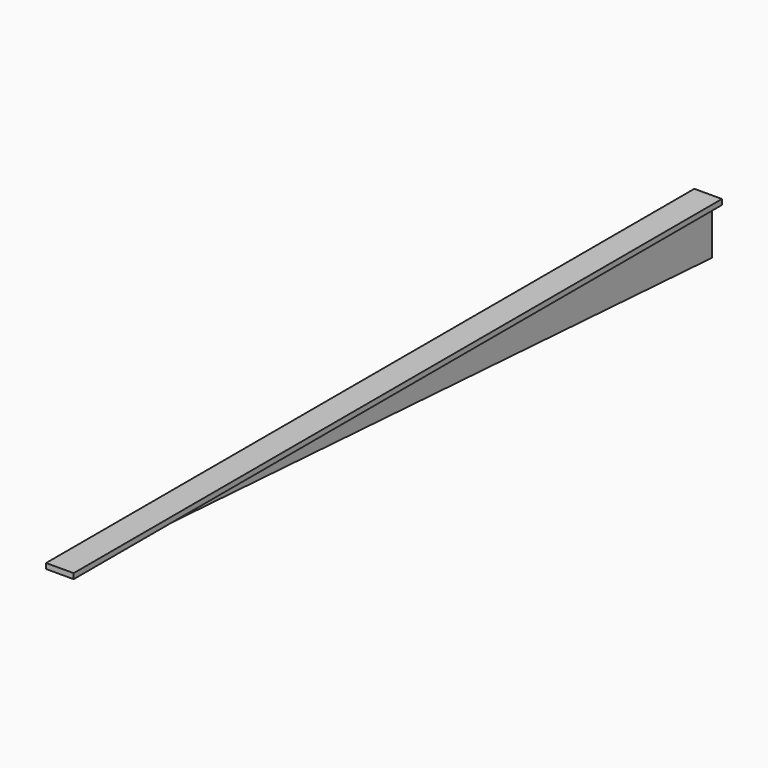
from build123d import *

# Parameters (mm, degrees)
F1_DEPTH = 500
F3_DEPTH = 100


with BuildPart() as f1:
    # F0 (on Front) → F1 (new body)
    with BuildSketch(Plane.XZ):
        Polygon((0, 16.431924), (-8.5, 16.431924), (-8.5, 13.145539), (-2.30047, 13.145539), (-2.30047, -17.568076), (0, -17.568076), (2.30047, -17.568076), (2.30047, 13.145539), (8.5, 13.145539), (8.5, 16.431924), align=None)
    extrude(amount=F1_DEPTH)

    # F2 (on face) → F3 (cut)
    with BuildSketch(Plane.YZ.offset(2.30047)):
        Polygon((0, -17.568076), (-500, 13.145539), (-500, -17.568076), align=None)
    extrude(amount=-F3_DEPTH, mode=Mode.SUBTRACT)


solid = f1.part
